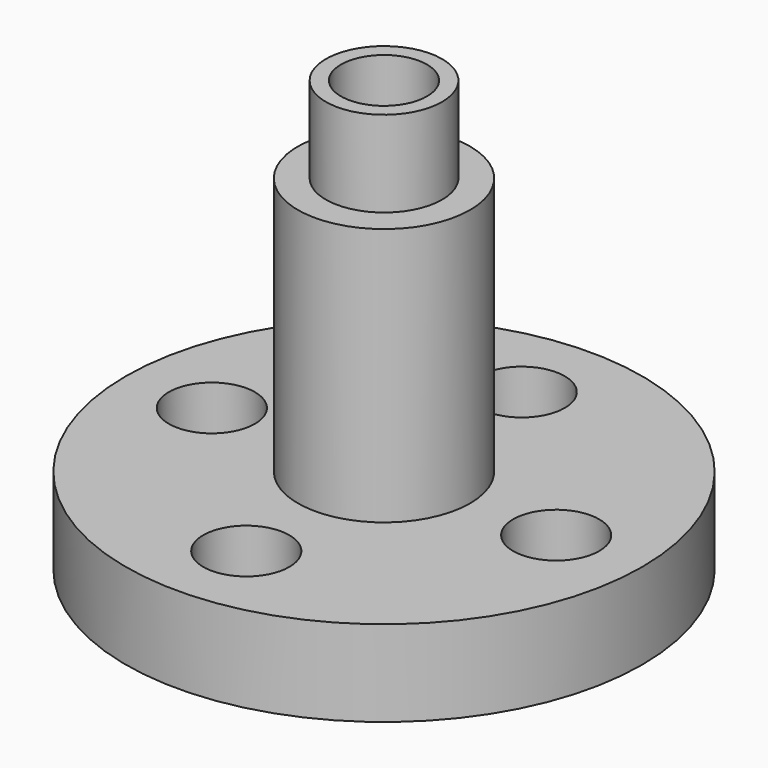
from build123d import *

# Parameters (mm, degrees)
F0_R     = 38.1
F1_DEPTH = 12.7
F2_R     = 6.35
F3_DEPTH = 12.701
F4_R     = 12.7
F5_DEPTH = 38.1
F6_R     = 8.5725
F7_DEPTH = 12.7
F8_R     = 6.35
F9_DEPTH = 63.501


with BuildPart() as f1:
    # F0 (on Top) → F1 (new body)
    with BuildSketch(Plane.XY):
        Circle(F0_R)
    extrude(amount=F1_DEPTH)

    # F2 (on face) → F3 (cut, through all)
    with BuildSketch(Plane.XY.offset(12.7)):
        with Locations((0, 25.4)):
            Circle(F2_R)
        with Locations((25.4, 0)):
            Circle(F2_R)
        with Locations((0, -25.4)):
            Circle(F2_R)
        with Locations((-25.4, 0)):
            Circle(F2_R)
    extrude(amount=-F3_DEPTH, mode=Mode.SUBTRACT)

    # F4 (on face) → F5 (join)
    with BuildSketch(Plane.XY.offset(12.7)):
        Circle(F4_R)
    extrude(amount=F5_DEPTH)

    # F6 (on face) → F7 (join)
    with BuildSketch(Plane.XY.offset(50.8)):
        Circle(F6_R)
    extrude(amount=F7_DEPTH)

    # F8 (on face) → F9 (cut, through all)
    with BuildSketch(Plane.XY.offset(63.5)):
        Circle(F8_R)
    extrude(amount=-F9_DEPTH, mode=Mode.SUBTRACT)


solid = f1.part
